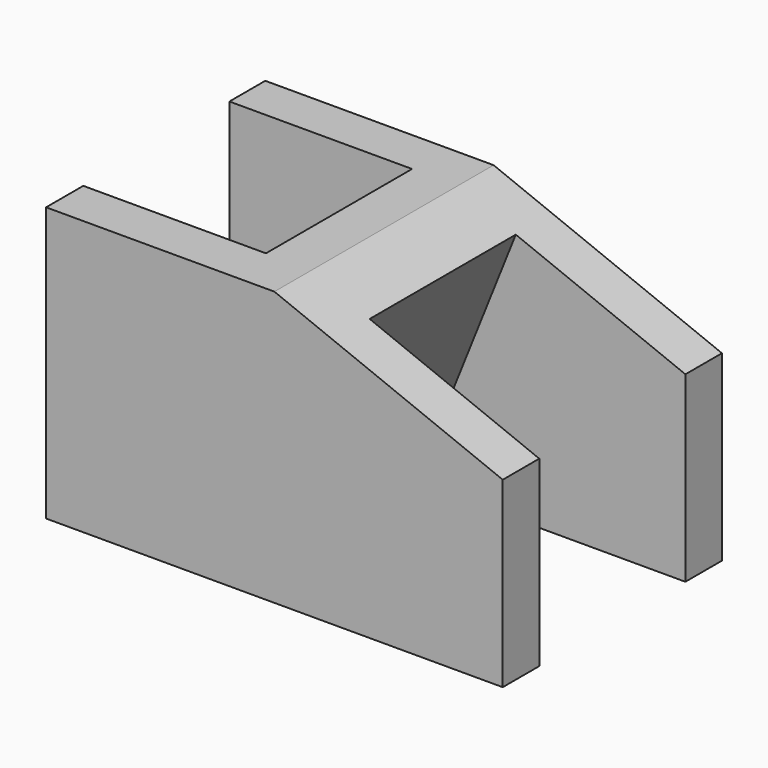
from build123d import *

# Parameters (mm, degrees)
F1_DEPTH = 76.2
F2_W     = 50.8
F2_H     = 50.8
F3_DEPTH = 94.234
F4_W     = 50.8
F4_H     = 134.9397847399
F5_DEPTH = 41.656
F6_W     = 50.8
F6_H     = 50.8
F7_DEPTH = 88.138


with BuildPart() as f1:
    # F0 (on Front) → F1 (new body)
    with BuildSketch(Plane.XZ):
        Polygon((-79.544827342, 62.9425281554), (-79.544827342, -13.2574718446), (47.455172658, -13.2574718446), (47.455172658, 37.5425281554), (-16.044827342, 62.9425281554), align=None)
    extrude(amount=F1_DEPTH)

    # F2 (on face) → F3 (cut)
    with BuildSketch(Plane(origin=(19.4912404202, 0, 48.7281010505), x_dir=(0.9284766909, 0, -0.3713906764), z_dir=(0.3713906764, 0, 0.9284766909))):
        with Locations((4.7180767512, -38.1)):
            Rectangle(F2_W, F2_H)
    extrude(amount=-F3_DEPTH, mode=Mode.SUBTRACT)

    # F4 (on face) → F5 (cut)
    with BuildSketch(Plane(origin=(27.9639322377, 0, -11.1855728951), x_dir=(0, -1, 0), z_dir=(-0.9284766909, 0, 0.3713906764))):
        with Locations((38.1, 65.2383889087)):
            Rectangle(F4_W, F4_H)
    extrude(amount=-F5_DEPTH, mode=Mode.SUBTRACT)

    # F6 (on face) → F7 (cut)
    with BuildSketch(Plane.XY.offset(62.9425281554)):
        with Locations((-54.144827342, -37.8712617517)):
            Rectangle(F6_W, F6_H)
    extrude(amount=-F7_DEPTH, mode=Mode.SUBTRACT)


solid = f1.part
